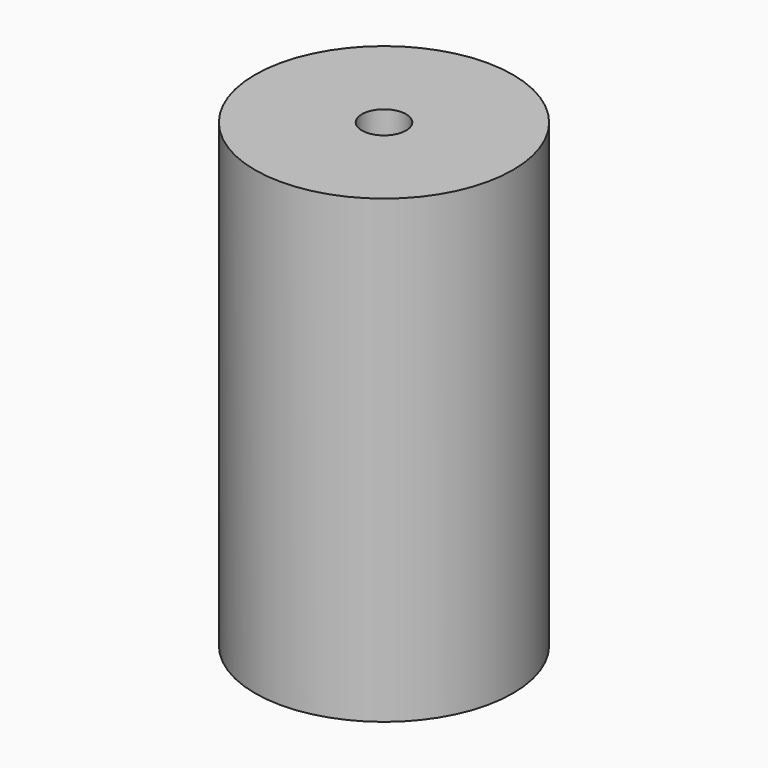
from build123d import *

# Parameters (mm, degrees)
SKETCH_R     = 7
PAD_DEPTH    = 25
SKETCH001_R  = 1.2
POCKET_DEPTH = 25


with BuildPart() as part:
    # Sketch → Pad (new body)
    with BuildSketch(Plane.XY):
        Circle(SKETCH_R)
    extrude(amount=PAD_DEPTH)

    # Sketch001 (on Face3 of Pad) → Pocket (cut)
    with BuildSketch(Plane.XY.offset(25)):
        Circle(SKETCH001_R)
    extrude(amount=-POCKET_DEPTH, mode=Mode.SUBTRACT)


solid = part.part
